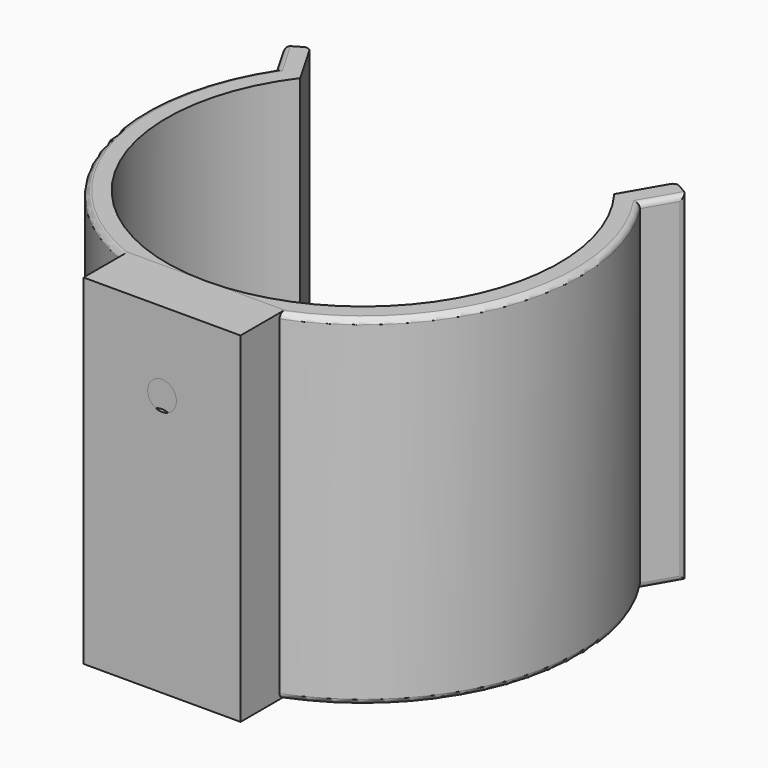
from build123d import *

# Parameters (mm, degrees)
PAD_DEPTH       = 65
SKETCH001_W     = 15
SKETCH001_H     = 10.5
PAD001_DEPTH    = 65
SKETCH010_R     = 8.25
POCKET_DEPTH    = 79.161254
SKETCH011_R     = 11.43427
PAD005_DEPTH    = 3
SKETCH012_R     = 2.75
POCKET004_DEPTH = 79.161254
FILLET_R        = 1
FILLET001_R     = 1
FILLET002_R     = 1
PAD002_DEPTH    = 7
SKETCH004_W     = 15
SKETCH004_H     = 10.5
PAD003_DEPTH    = 65
SKETCH005_R     = 2.5
POCKET001_DEPTH = 55.501
PAD004_DEPTH    = 4
SKETCH008_R     = 2.75
POCKET002_DEPTH = 70.501
SKETCH009_R     = 8.25
POCKET003_DEPTH = 7.5


with BuildPart() as upper:
    # Sketch → Pad (new body)
    with BuildSketch(Plane.XY):
        with BuildLine():
            ThreePointArc((-30, 22.5), (-33.54102, -16.77051), (0, -37.5))
            Line((0, -37.5), (0, -41.5))
            ThreePointArc((-34.737583, 22.705734), (-36.50026, -19.747937), (0, -41.5))
            Line((-38.464102, 29.160254), (-34.737583, 22.705734))
            Line((-35, 31.160254), (-38.464102, 29.160254))
            Line((-30, 22.5), (-35, 31.160254))
        make_face()
    pad = extrude(amount=PAD_DEPTH)

    # Sketch001 → Pad001 (join)
    with BuildSketch(Plane.XY):
        with Locations((-7.5, -42.75)):
            Rectangle(SKETCH001_W, SKETCH001_H)
    pad001 = extrude(amount=PAD001_DEPTH)

    # Mirrored: Pad001, Pad across Sketch001 V_Axis
    add(pad001.mirror(Plane(origin=(0, 0, 0), x_dir=(0, 0, 1), z_dir=(1, 0, 0))))
    add(pad.mirror(Plane(origin=(0, 0, 0), x_dir=(0, 0, 1), z_dir=(1, 0, 0))))

    # Sketch010 (on Face15 of Pad001) → Pocket (cut, through all)
    with BuildSketch(Plane.XZ.offset(48)):
        with Locations((0, 45)):
            Circle(SKETCH010_R)
    extrude(amount=-POCKET_DEPTH, mode=Mode.SUBTRACT)

    # Sketch011 (on Face16 of Pocket) → Pad005 (join)
    with BuildSketch(Plane.XZ.offset(48)):
        with Locations((0, 45)):
            Circle(SKETCH011_R)
    extrude(amount=-PAD005_DEPTH)

    # Sketch012 (on Face28 of Pad005) → Pocket004 (cut, through all)
    with BuildSketch(Plane.XZ.offset(48)):
        with Locations((0, 45)):
            Circle(SKETCH012_R)
    extrude(amount=-POCKET004_DEPTH, mode=Mode.SUBTRACT)

    # Fillet
    fillet_edges = [upper.edges().sort_by_distance(p)[0] for p in [
        (39.508838, -12.700462, 0),
        (36.600842, 25.932994, 0),
        (38.464102, 29.160254, 32.5),
        (36.600842, 25.932994, 65),
        (39.508838, -12.700462, 65),
    ]]
    fillet(fillet_edges, radius=FILLET_R)

    # Fillet001
    fillet001_edges = [upper.edges().sort_by_distance(p)[0] for p in [
        (-39.508838, -12.700462, 0),
        (-36.600842, 25.932994, 0),
        (-38.464102, 29.160254, 32.5),
        (-36.600842, 25.932994, 65),
        (-39.508838, -12.700462, 65),
    ]]
    fillet(fillet001_edges, radius=FILLET001_R)

    # Fillet002
    fillet002_edges = [upper.edges().sort_by_distance(p)[0] for p in [
        (-35, 31.160254, 32.5),
        (35, 31.160254, 32.5),
    ]]
    fillet(fillet002_edges, radius=FILLET002_R)


with BuildPart() as lower:
    # Sketch003 → Pad002 (new body)
    with BuildSketch(Plane.XY):
        with BuildLine():
            ThreePointArc((-30, 22.5), (-33.54102, -16.77051), (0, -37.5))
            Line((0, -37.5), (0, -40.5))
            ThreePointArc((-33.674916, 22.5), (-35.717643, -19.091883), (0, -40.5))
            Line((-33.674916, 22.5), (-30, 22.5))
        make_face()
    pad002 = extrude(amount=PAD002_DEPTH)

    # Sketch004 → Pad003 (join)
    with BuildSketch(Plane.XY):
        with Locations((-7.5, -42.75)):
            Rectangle(SKETCH004_W, SKETCH004_H)
    pad003 = extrude(amount=PAD003_DEPTH)

    # Mirrored001: Pad003, Pad002 across Sketch004 V_Axis
    add(pad003.mirror(Plane(origin=(0, 0, 0), x_dir=(0, 0, 1), z_dir=(1, 0, 0))))
    add(pad002.mirror(Plane(origin=(0, 0, 0), x_dir=(0, 0, 1), z_dir=(1, 0, 0))))

    # Sketch005 (on Face22 of Mirrored001) → Pocket001 (cut, through all)
    with BuildSketch(Plane.YZ.offset(15)):
        with Locations((0, 20)):
            Circle(SKETCH005_R)
    extrude(amount=-POCKET001_DEPTH, mode=Mode.SUBTRACT)

    # Sketch007 → Pad004 (join)
    with BuildSketch(Plane.XY):
        with BuildLine():
            ThreePointArc((-31.86, 22.493119), (-34.628252, -17.941131), (0, -39))
            Line((0, -39), (0, 22.493119))
            Line((-31.86, 22.493119), (0, 22.493119))
        make_face()
    pad004 = extrude(amount=PAD004_DEPTH)

    # Mirrored002: Pad004 across Sketch007 V_Axis
    add(pad004.mirror(Plane(origin=(0, 0, 0), x_dir=(0, 0, 1), z_dir=(1, 0, 0))))

    # Sketch008 (on Face14 of Mirrored002) → Pocket002 (cut, through all)
    with BuildSketch(Plane.XZ.offset(48)):
        with Locations((0, 50)):
            Circle(SKETCH008_R)
    extrude(amount=-POCKET002_DEPTH, mode=Mode.SUBTRACT)

    # Sketch009 (on Face12 of Pocket002) → Pocket003 (cut)
    with BuildSketch(Plane(origin=(0, -37.5, 0), x_dir=(-1, 0, 0), z_dir=(0, 1, 0))):
        with Locations((0, 50)):
            Circle(SKETCH009_R)
    extrude(amount=-POCKET003_DEPTH, mode=Mode.SUBTRACT)


solid = Compound([upper.part, lower.part])
